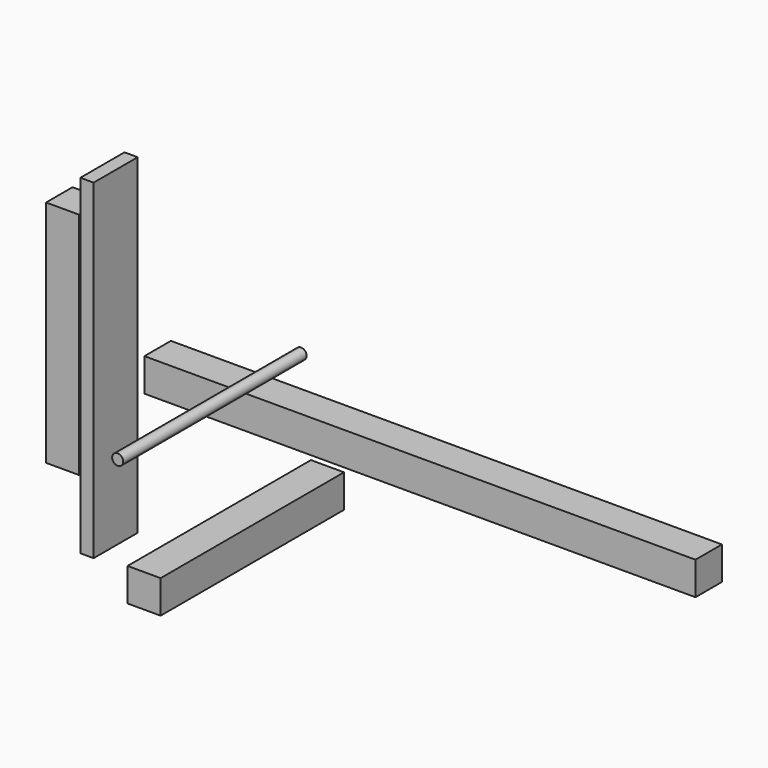
from build123d import *

# Parameters (mm, degrees)
F0_W     = 250
F0_H     = 15
F1_DEPTH = 15
F2_W     = 104
F2_H     = 15
F3_DEPTH = 15
F4_W     = 15
F4_H     = 104
F5_DEPTH = 15
F6_R     = 2.5
F7_DEPTH = 104
F8_W     = 6
F8_H     = 150
F9_DEPTH = 25


with BuildPart() as f1:
    # F0 (on Top) → F1 (new body)
    with BuildSketch(Plane.XY):
        with Locations((96.132084, 7.5)):
            Rectangle(F0_W, F0_H)
    extrude(amount=F1_DEPTH)


with BuildPart() as f3:
    # F2 (on Right) → F3 (new body)
    with BuildSketch(Plane.YZ):
        with Locations((6.350369, -48.349999)):
            Rectangle(F2_W, F2_H)
    extrude(amount=F3_DEPTH)


with BuildPart() as f5:
    # F4 (on Front) → F5 (new body)
    with BuildSketch(Plane.XZ):
        with Locations((-53.978287, 19.858433)):
            Rectangle(F4_W, F4_H)
    extrude(amount=F5_DEPTH)


with BuildPart() as f7:
    # F6 (on Front) → F7 (new body)
    with BuildSketch(Plane.XZ):
        with Locations((42.210877, 39.07872)):
            Circle(F6_R)
    extrude(amount=F7_DEPTH)


with BuildPart() as f9:
    # F8 (on Front) → F9 (new body)
    with BuildSketch(Plane.XZ):
        with Locations((-34.91004, 18.466359)):
            Rectangle(F8_W, F8_H)
    extrude(amount=F9_DEPTH)


solid = Compound([f1.part, f3.part, f5.part, f7.part, f9.part])
